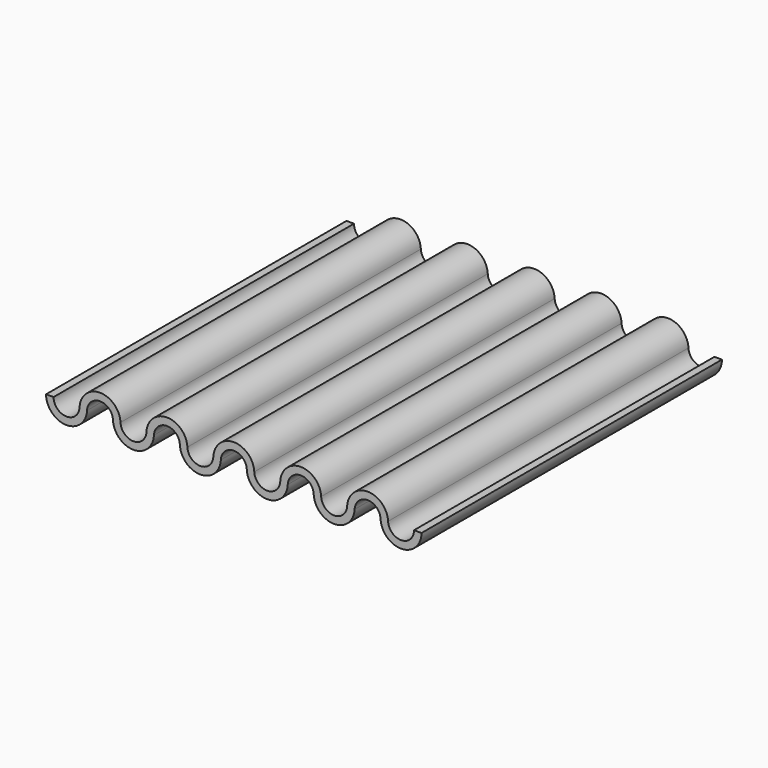
from build123d import *

# Parameters (mm, degrees)
PAD_DEPTH = 10


with BuildPart() as part:
    # Sketch → Pad (new body, symmetric)
    with BuildSketch(Plane.XZ):
        with BuildLine():
            ThreePointArc((-6.03596, 0.051174), (-7.12656, 1.0918), (-8.21716, 0.051174))
            ThreePointArc((-9.6, 0.0836), (-8.924417, -0.60801), (-8.21716, 0.051174))
            Line((-9.6, 0.0836), (-10, 0.0836))
            ThreePointArc((-10, 0.0836), (-8.933794, -1.0079), (-7.8176, 0.032426))
            ThreePointArc((-6.43552, 0.032426), (-7.12656, 0.6918), (-7.8176, 0.032426))
            ThreePointArc((-6.43552, 0.032426), (-5.34492, -1.0082), (-4.25432, 0.032426))
            ThreePointArc((-2.87224, 0.032426), (-3.56328, 0.6918), (-4.25432, 0.032426))
            ThreePointArc((-2.87224, 0.032426), (-1.78164, -1.0082), (-0.69104, 0.032426))
            ThreePointArc((0.69104, 0.032426), (0, 0.6918), (-0.69104, 0.032426))
            ThreePointArc((0.69104, 0.032426), (1.78164, -1.0082), (2.87224, 0.032426))
            ThreePointArc((4.25432, 0.032426), (3.56328, 0.6918), (2.87224, 0.032426))
            ThreePointArc((4.25432, 0.032426), (5.34492, -1.0082), (6.43552, 0.032426))
            ThreePointArc((7.8176, 0.032426), (7.12656, 0.6918), (6.43552, 0.032426))
            ThreePointArc((7.8176, 0.032426), (8.933794, -1.0079), (10, 0.0836))
            Line((9.6, 0.0836), (10, 0.0836))
            ThreePointArc((8.21716, 0.051174), (8.924417, -0.60801), (9.6, 0.0836))
            ThreePointArc((8.21716, 0.051174), (7.12656, 1.0918), (6.03596, 0.051174))
            ThreePointArc((4.65388, 0.051174), (5.34492, -0.6082), (6.03596, 0.051174))
            ThreePointArc((4.65388, 0.051174), (3.56328, 1.0918), (2.47268, 0.051174))
            ThreePointArc((1.0906, 0.051174), (1.78164, -0.6082), (2.47268, 0.051174))
            ThreePointArc((1.0906, 0.051174), (0, 1.0918), (-1.0906, 0.051174))
            ThreePointArc((-2.47268, 0.051174), (-1.78164, -0.6082), (-1.0906, 0.051174))
            ThreePointArc((-2.47268, 0.051174), (-3.56328, 1.0918), (-4.65388, 0.051174))
            ThreePointArc((-6.03596, 0.051174), (-5.34492, -0.6082), (-4.65388, 0.051174))
        make_face()
    extrude(amount=PAD_DEPTH, both=True)


solid = part.part
